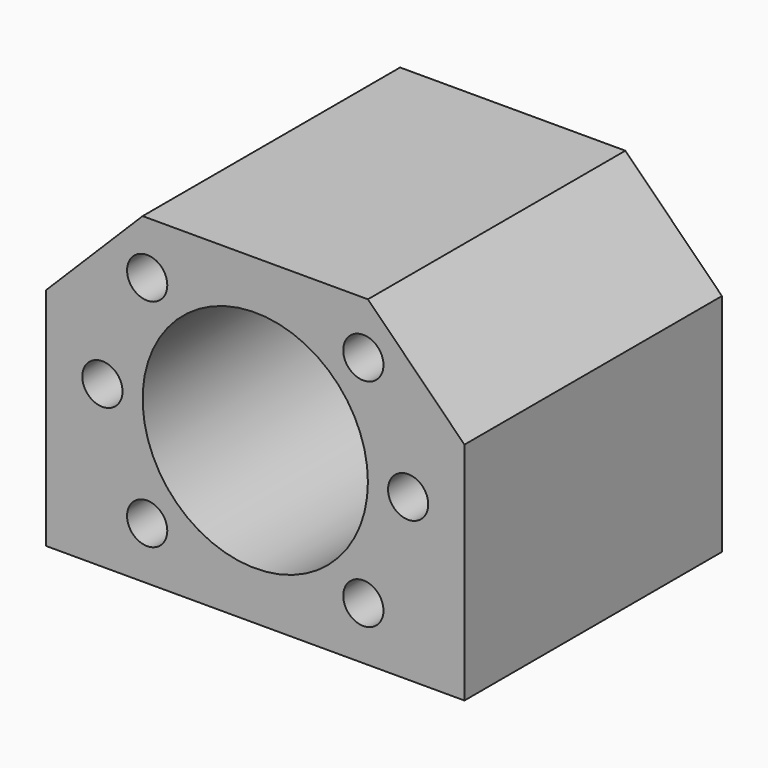
from build123d import *

# Parameters (mm, degrees)
F0_W     = 52
F0_H     = 40
F1_DEPTH = 40
F2_R     = 14
F3_DEPTH = 40.001
F4_SIZE  = 12
F6_R     = 2.5
F7_DEPTH = 12
F8_R     = 2.5
F9_DEPTH = 12


with BuildPart() as f1:
    # F0 (on Front) → F1 (new body)
    with BuildSketch(Plane.XZ):
        Rectangle(F0_W, F0_H)
    extrude(amount=F1_DEPTH)

    # F2 (on face) → F3 (cut, through all)
    with BuildSketch(Plane.XZ.offset(40)):
        Circle(F2_R)
    extrude(amount=-F3_DEPTH, mode=Mode.SUBTRACT)

    # F4
    f4_edges = [f1.edges().sort_by_distance(p)[0] for p in [
        (-26, -20, 20),
        (26, -20, 20),
    ]]
    chamfer(f4_edges, length=F4_SIZE)

    # F6 (on face) → F7 (cut)
    with BuildSketch(Plane.XZ.offset(40)):
        with Locations((-19, 0)):
            Circle(F6_R)
        with Locations((-13.435029, -13.435029)):
            Circle(F6_R)
        with Locations((13.435029, -13.435029)):
            Circle(F6_R)
        with Locations((19, 0)):
            Circle(F6_R)
        with Locations((13.435029, 13.435029)):
            Circle(F6_R)
        with Locations((-13.435029, 13.435029)):
            Circle(F6_R)
    extrude(amount=-F7_DEPTH, mode=Mode.SUBTRACT)

    # F8 (on face) → F9 (cut)
    with BuildSketch(Plane(origin=(0, 0, -20), x_dir=(1, 0, 0), z_dir=(0, 0, -1))):
        with Locations((-20, 32)):
            Circle(F8_R)
        with Locations((20, 32)):
            Circle(F8_R)
        with Locations((20, 8)):
            Circle(F8_R)
        with Locations((-20, 8)):
            Circle(F8_R)
    extrude(amount=-F9_DEPTH, mode=Mode.SUBTRACT)


solid = f1.part
